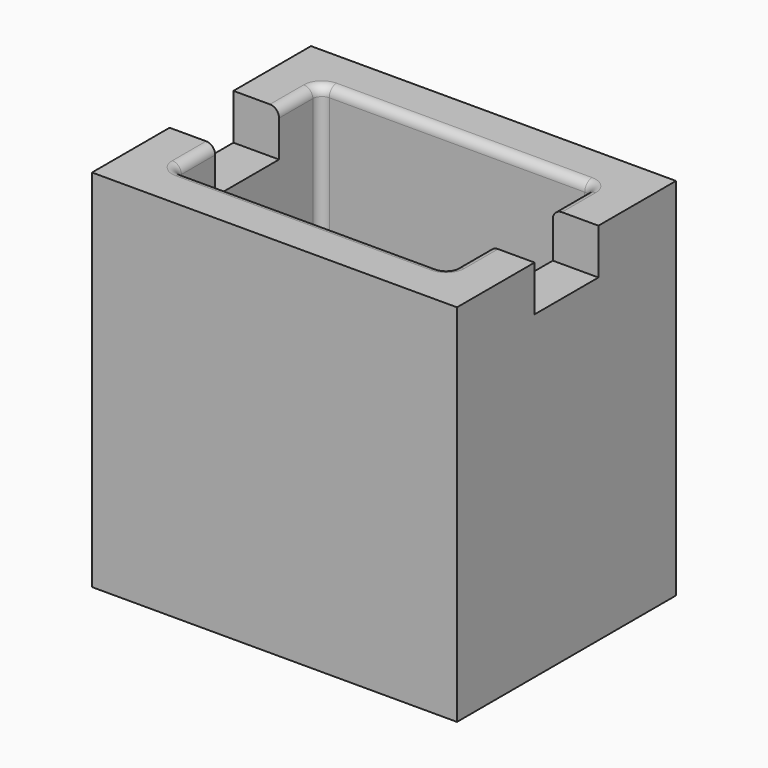
from build123d import *

# Parameters (mm, degrees)
F0_W     = 203.2
F0_H     = 152.4
F1_DEPTH = 203.2
F2_W     = 152.4
F2_H     = 101.6
F3_DEPTH = 203.201
F4_R     = 5.08
F5_W     = 44.45
F5_H     = 25.4
F6_DEPTH = 203.2


with BuildPart() as f1:
    # F0 (on Top) → F1 (new body)
    with BuildSketch(Plane.XY):
        Rectangle(F0_W, F0_H)
    extrude(amount=F1_DEPTH)

    # F2 (on face) → F3 (cut, through all)
    with BuildSketch(Plane.XY.offset(203.2)):
        Rectangle(F2_W, F2_H)
    extrude(amount=-F3_DEPTH, mode=Mode.SUBTRACT)

    # F4
    f4_edges = [f1.edges().sort_by_distance(p)[0] for p in [
        (-76.2, 0, 203.2),
        (-76.2, -50.8, 101.6),
        (-76.2, 0, 0),
        (-76.2, 50.8, 101.6),
        (0, -50.8, 203.2),
        (76.2, -50.8, 101.6),
        (0, -50.8, 0),
        (76.2, 0, 203.2),
        (76.2, 50.8, 101.6),
        (76.2, 0, 0),
        (0, 50.8, 203.2),
        (0, 50.8, 0),
    ]]
    fillet(f4_edges, radius=F4_R)

    # F5 (on face) → F6 (cut)
    with BuildSketch(Plane.YZ.offset(101.6)):
        with Locations((0, 190.5)):
            Rectangle(F5_W, F5_H)
    extrude(amount=-F6_DEPTH, mode=Mode.SUBTRACT)


solid = f1.part
